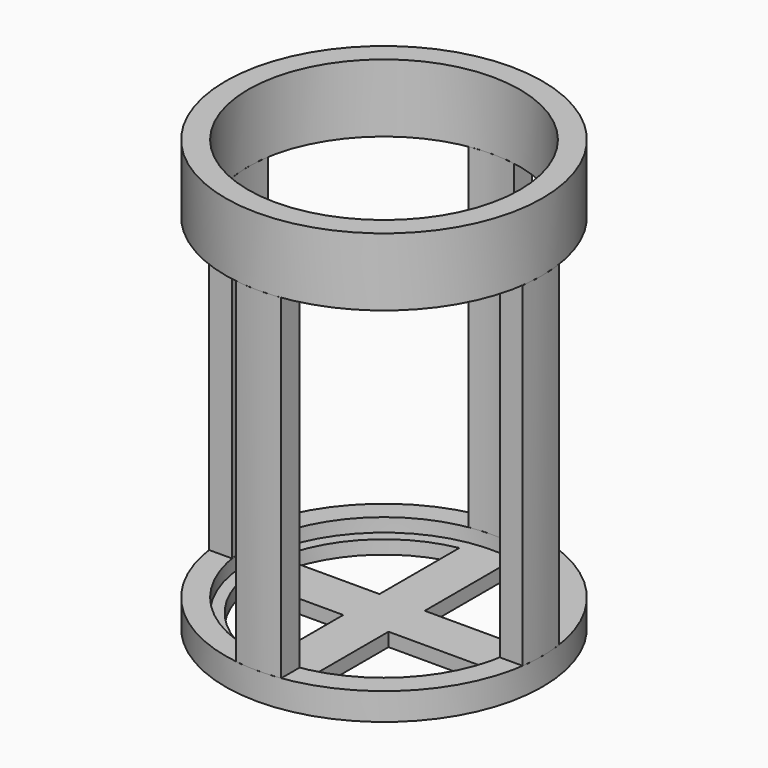
from build123d import *

# Parameters (mm, degrees)
F0_R      = 17.5
F0_R_2    = 13.75
F1_DEPTH  = 43
F2_R      = 15
F2_R_2    = 13.75
F3_DEPTH  = 41.5
F5_W      = 34.3430949748
F5_H      = 5
F5_W_2    = 5
F5_H_2    = 31.6730713844
F6_DEPTH  = 37
F7_R      = 17.5
F7_R_2    = 13.75
F8_DEPTH  = 3
F10_R     = 17.5
F10_R_2   = 15
F11_DEPTH = 7.5
F12_R     = 15
F13_DEPTH = 1.5
F14_W     = 5
F14_H     = 5
F15_DEPTH = 1.5


with BuildPart() as f1:
    # F0 (on Top) → F1 (new body)
    with BuildSketch(Plane.XY):
        Circle(F0_R)
        Circle(F0_R_2, mode=Mode.SUBTRACT)
    extrude(amount=F1_DEPTH)

    # F2 (on face) → F3 (cut)
    with BuildSketch(Plane.XY.offset(43)):
        Circle(F2_R)
        Circle(F2_R_2, mode=Mode.SUBTRACT)
    extrude(amount=-F3_DEPTH, mode=Mode.SUBTRACT)

    # F5 (on offset) → F6 (intersect)
    with BuildSketch(Plane.XY.offset(3)):
        with Locations((19.6715474874, 0)):
            Rectangle(F5_W, F5_H)
        Rectangle(F5_W_2, F5_H)
        with Locations((0, 18.3365356922)):
            Rectangle(F5_W_2, F5_H_2)
        with Locations((-19.6715474874, 0)):
            Rectangle(F5_W, F5_H)
        with Locations((0, -18.3365356922)):
            Rectangle(F5_W_2, F5_H_2)
    extrude(amount=F6_DEPTH, mode=Mode.INTERSECT)


with BuildPart() as f8:
    # F7 (on Top) → F8 (new body)
    with BuildSketch(Plane.XY):
        Circle(F7_R)
        Circle(F7_R_2, mode=Mode.SUBTRACT)
    extrude(amount=F8_DEPTH)

    # F12 (on face) → F13 (cut)
    with BuildSketch(Plane.XY.offset(3)):
        Circle(F12_R)
    extrude(amount=-F13_DEPTH, mode=Mode.SUBTRACT)

    # F14 (on Top) → F15 (join)
    with BuildSketch(Plane.XY):
        with BuildLine():
            ThreePointArc((14.7901994577, -2.5), (14.9474578418, -1.2543939042), (15, 0))
            ThreePointArc((15, 0), (14.9474578418, 1.2543939042), (14.7901994577, 2.5))
            Line((14.7901994577, 2.5), (2.5, 2.5))
            Line((2.5, 2.5), (2.5, -2.5))
            Line((2.5, -2.5), (14.7901994577, -2.5))
        make_face()
        Rectangle(F14_W, F14_H)
        with BuildLine():
            Line((2.5, 2.5), (2.5, 14.7901994577))
            ThreePointArc((2.5, 14.7901994577), (0, 15), (-2.5, 14.7901994577))
            Line((-2.5, 14.7901994577), (-2.5, 2.5))
            Line((-2.5, 2.5), (2.5, 2.5))
        make_face()
        with BuildLine():
            ThreePointArc((-2.5, -14.7901994577), (0, -15), (2.5, -14.7901994577))
            Line((2.5, -14.7901994577), (2.5, -2.5))
            Line((2.5, -2.5), (-2.5, -2.5))
            Line((-2.5, -2.5), (-2.5, -14.7901994577))
        make_face()
        with BuildLine():
            Line((-2.5, -2.5), (-2.5, 2.5))
            Line((-2.5, 2.5), (-14.7901994577, 2.5))
            ThreePointArc((-14.7901994577, 2.5), (-15, 0), (-14.7901994577, -2.5))
            Line((-14.7901994577, -2.5), (-2.5, -2.5))
        make_face()
    extrude(amount=F15_DEPTH)


with BuildPart() as f11:
    # F10 (on offset) → F11 (new body)
    with BuildSketch(Plane.XY.offset(40)):
        Circle(F10_R)
        Circle(F10_R_2, mode=Mode.SUBTRACT)
    extrude(amount=F11_DEPTH)


solid = Compound([f1.part, f8.part, f11.part])
